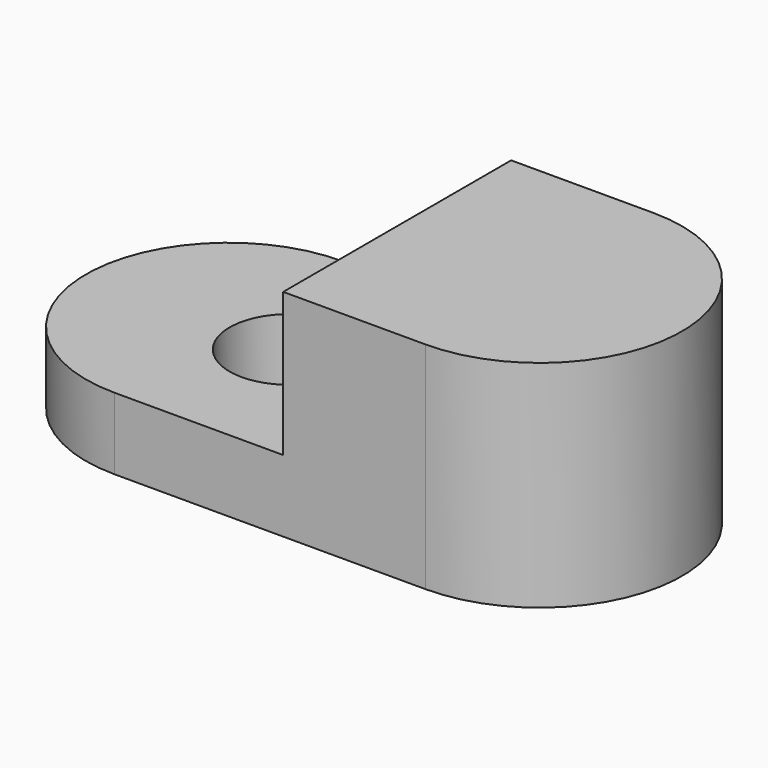
from build123d import *

# Parameters (mm, degrees)
F0_R     = 2.5
F1_DEPTH = 3
F3_DEPTH = 6
F4_R     = 2.5
F5_DEPTH = 3


with BuildPart() as f1:
    # F0 (on Top) → F1 (new body)
    with BuildSketch(Plane.XY):
        with BuildLine():
            ThreePointArc((-6.5, 5.95), (-12.45, 0), (-6.5, -5.95))
            Line((-6.5, -5.95), (6.5, -5.95))
            ThreePointArc((6.5, -5.95), (12.45, 0), (6.5, 5.95))
            Line((6.5, 5.95), (-6.5, 5.95))
        make_face()
        with Locations((-3.95, 0)):
            Circle(F0_R, mode=Mode.SUBTRACT)
        with Locations((-3.95, 0)):
            Circle(F0_R)
    extrude(amount=F1_DEPTH)

    # F2 (on face) → F3 (join)
    with BuildSketch(Plane.XY.offset(3)):
        with BuildLine():
            Line((6.5, 5.95), (0.55, 5.95))
            Line((0.55, 5.95), (0.55, -5.95))
            Line((0.55, -5.95), (6.5, -5.95))
            ThreePointArc((6.5, -5.95), (12.45, 0), (6.5, 5.95))
        make_face()
    extrude(amount=F3_DEPTH)

    # F4 (on face) → F5 (cut)
    with BuildSketch(Plane.XY.offset(3)):
        with Locations((-3.95, 0)):
            Circle(F4_R)
    extrude(amount=-F5_DEPTH, mode=Mode.SUBTRACT)


solid = f1.part
